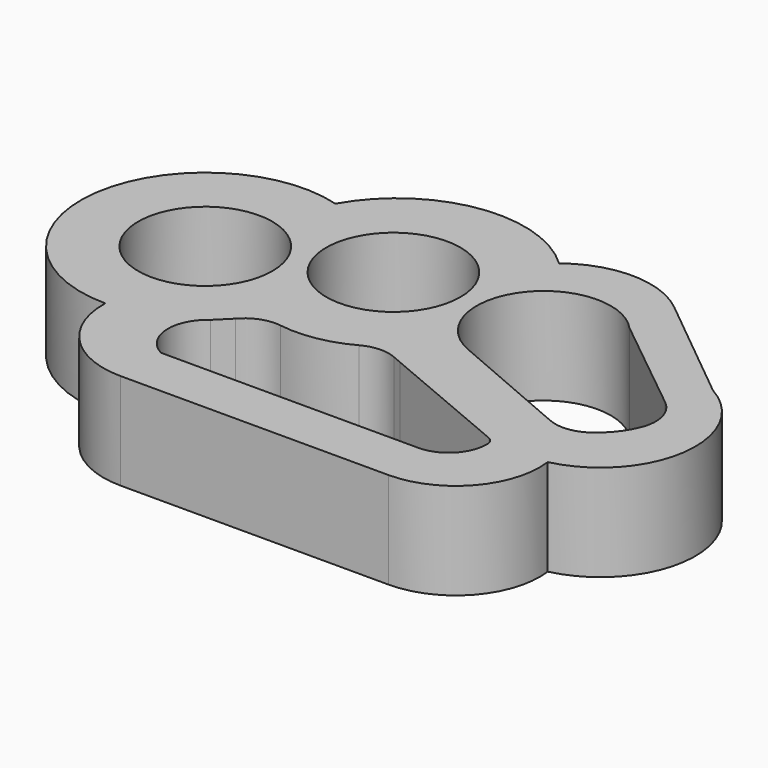
from build123d import *

# Parameters (mm, degrees)
F0_R     = 0.843418
F0_R_2   = 8.832177
F1_DEPTH = 12.7


with BuildPart() as f1:
    # F0 (on Top) → F1 (new body)
    with BuildSketch(Plane.XY):
        with BuildLine():
            Line((29.077518, -5.167775), (15.826548, 5.499091))
            ThreePointArc((15.826548, 5.499091), (2.121577, 4.619035), (5.844711, -8.599852))
            Line((5.844711, -8.599852), (22.372127, -15.697881))
            ThreePointArc((22.372127, -15.697881), (24.863131, -16.082694), (27.229577, -15.214872))
            ThreePointArc((27.229577, -15.214872), (29.246331, -13.324396), (30.61809, -10.924506))
            ThreePointArc((30.61809, -10.924506), (30.898826, -9.880872), (30.950931, -8.801395))
            ThreePointArc((30.950931, -8.801395), (30.398606, -6.786407), (29.077518, -5.167775))
        make_face()
        with Locations((21.721765, -3.488423)):
            Circle(F0_R, mode=Mode.SUBTRACT)
        with BuildLine():
            Line((31.223466, 0), (16.507468, 12.005767))
            ThreePointArc((16.507468, 12.005767), (8.891612, 14.772733), (1.20816, 12.199422))
            ThreePointArc((1.20816, 12.199422), (-12.898606, 16.595964), (-25.057666, 8.20027))
            ThreePointArc((-25.057666, 8.20027), (-45.809619, -5.206015), (-29.664265, -23.906271))
            ThreePointArc((-29.664265, -23.906271), (-26.450695, -32.132084), (-18.314694, -35.566688))
            Line((-18.314694, -35.566688), (16.957715, -35.566688))
            ThreePointArc((16.957715, -35.566688), (25.270047, -31.809675), (27.942201, -23.087886))
            ThreePointArc((27.942201, -23.087886), (37.511123, -12.670717), (31.223466, 0))
        make_face()
        with BuildLine():
            Line((0.954143, -14.686035), (2.184875, -15.214872))
            Line((2.184875, -15.214872), (19.837113, -22.659515))
            ThreePointArc((19.837113, -22.659515), (20.371596, -23.095987), (20.585139, -23.752173))
            ThreePointArc((20.585139, -23.752173), (19.166268, -27.39952), (15.561492, -28.923305))
            Line((15.561492, -28.923305), (-18.314694, -28.923305))
            ThreePointArc((-18.314694, -28.923305), (-21.095413, -24.635676), (-18.911956, -20.015212))
            Line((-18.911956, -20.015212), (-17.088163, -18.20053))
            ThreePointArc((-17.088163, -18.20053), (-15.021321, -16.7583), (-12.514788, -16.495319))
            ThreePointArc((-12.514788, -16.495319), (-7.852023, -16.431269), (-3.450877, -14.890039))
            ThreePointArc((-3.450877, -14.890039), (-1.271827, -14.281482), (0.954143, -14.686035))
        make_face(mode=Mode.SUBTRACT)
        with Locations((-29.566608, -7.570438)):
            Circle(F0_R_2, mode=Mode.SUBTRACT)
        with Locations((-10.851985, 0)):
            Circle(F0_R_2, mode=Mode.SUBTRACT)
        with BuildLine():
            ThreePointArc((5.844711, -8.599852), (2.121577, 4.619035), (15.826548, 5.499091))
            Line((15.826548, 5.499091), (29.077518, -5.167775))
            ThreePointArc((29.077518, -5.167775), (30.398606, -6.786407), (30.950931, -8.801395))
            ThreePointArc((30.950931, -8.801395), (30.898826, -9.880872), (30.61809, -10.924506))
            ThreePointArc((30.61809, -10.924506), (29.246331, -13.324396), (27.229577, -15.214872))
            ThreePointArc((27.229577, -15.214872), (24.863131, -16.082694), (22.372127, -15.697881))
            Line((22.372127, -15.697881), (5.844711, -8.599852))
        make_face(mode=Mode.SUBTRACT)
    extrude(amount=F1_DEPTH)


solid = f1.part
